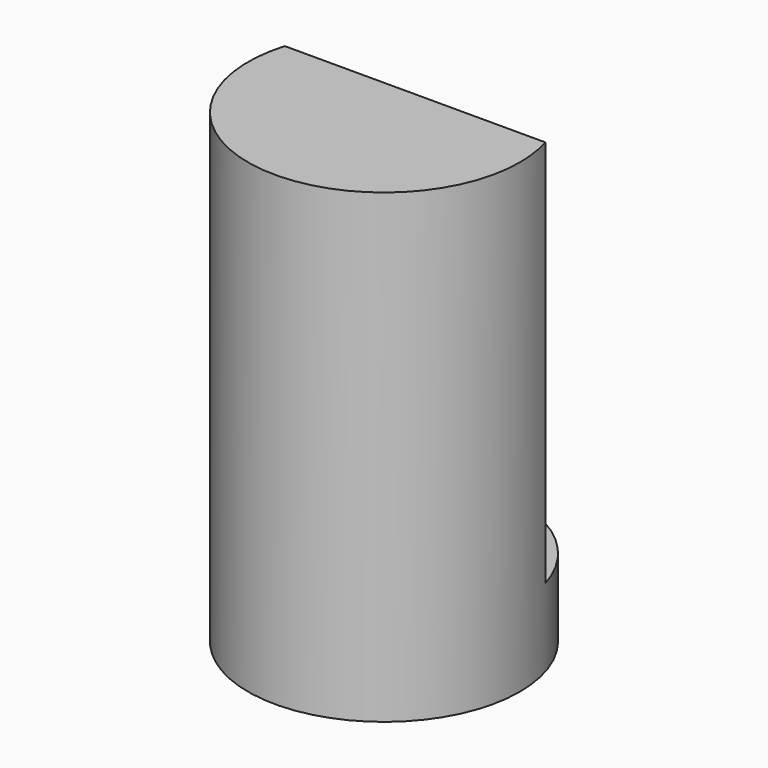
from build123d import *

# Parameters (mm, degrees)
BOX001_W          = 10
BOX001_H          = 10
BOX001_DEPTH      = 10
CYLINDER002_R     = 3.5
CYLINDER002_DEPTH = 12


with BuildPart() as obj1:
    # Box001 → Box001 (new body)
    with BuildSketch(Plane(origin=(2, -1.5, 15), x_dir=(1, 0, 0), z_dir=(0, 0, 1))):
        with Locations((5, 5)):
            Rectangle(BOX001_W, BOX001_H)
    extrude(amount=BOX001_DEPTH)


with BuildPart() as cut:
    # Cylinder002 → Cylinder002 (new body)
    with BuildSketch(Plane(origin=(7.5, -2.5, 13), x_dir=(1, 0, 0), z_dir=(0, 0, 1))):
        Circle(CYLINDER002_R)
    extrude(amount=CYLINDER002_DEPTH)

    # Cut: cut obj1
    add(obj1.part, mode=Mode.SUBTRACT)


solid = cut.part
